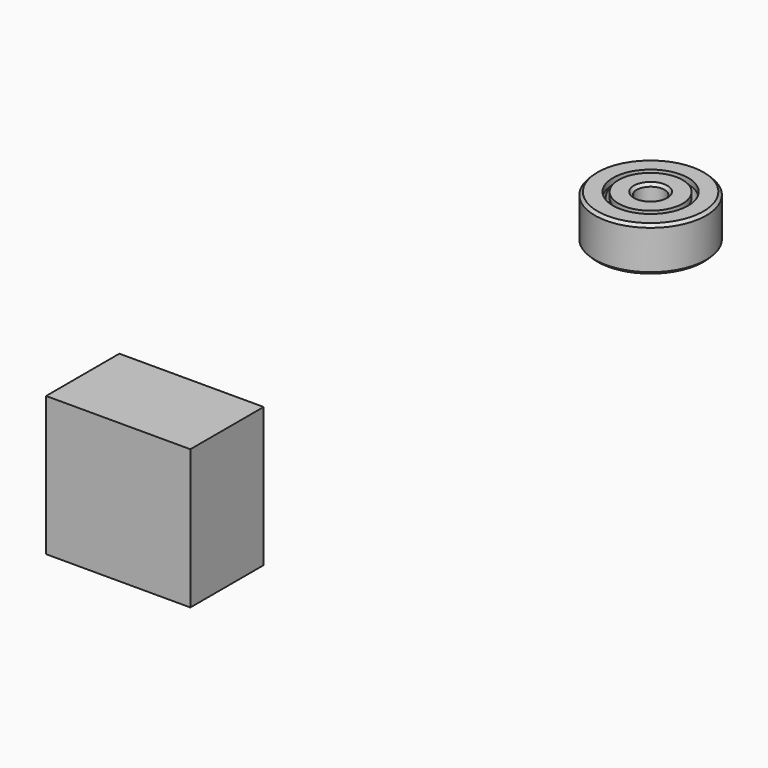
from build123d import *

# Parameters (mm, degrees)
F7_SIZE   = 0.5
F7_2_SIZE = 0.5
F8_COUNT  = 5
F10_W     = 25.8927643299
F10_H     = 16.4390318096
F11_DEPTH = 25


with BuildPart() as f5:
    # F4 (on Right) → F5 (revolve)
    with BuildSketch(Plane.YZ):
        with BuildLine():
            Line((6.25, -2.9), (6.25, 2.9))
            ThreePointArc((6.25, 2.9), (3.35, 0), (6.25, -2.9))
        make_face()
    revolve(axis=Axis((0, 6.25, 0), (0, 0, -1)))


with BuildPart() as f6:
    # F3 (on Right) → F6 (revolve)
    with BuildSketch(Plane.YZ):
        with BuildLine():
            ThreePointArc((5.75, -2.9580398915), (3.25, 0), (5.75, 2.9580398915))
            Line((5.75, 2.9580398915), (5.75, 4))
            Line((5.75, 4), (2.5, 4))
            Line((2.5, 4), (2.5, 0))
            Line((2.5, 0), (2.5, -4))
            Line((2.5, -4), (5.75, -4))
            Line((5.75, -4), (5.75, -2.9580398915))
        make_face()
    revolve(axis=Axis((0, 0, 3.6608051842), (0, 0, 1)))

    # F7#2
    f7_2_edges = [f6.edges().sort_by_distance(p)[0] for p in [
        (0, -2.5, 4),
        (0, -2.5, -4),
    ]]
    chamfer(f7_2_edges, length=F7_2_SIZE)


with BuildPart() as f6b:
    # F3 (on Right) → F6, piece 2 (revolve)
    with BuildSketch(Plane.YZ):
        with BuildLine():
            Line((6.75, 4), (6.75, 2.9580398915))
            ThreePointArc((6.75, 2.9580398915), (9.25, 0), (6.75, -2.9580398915))
            Line((6.75, -2.9580398915), (6.75, -4))
            Line((6.75, -4), (10, -4))
            Line((10, -4), (10, 0))
            Line((10, 0), (10, 4))
            Line((10, 4), (6.75, 4))
        make_face()
    revolve(axis=Axis((0, 0, 3.6608051842), (0, 0, 1)))

    # F7
    f7_edges = [f6b.edges().sort_by_distance(p)[0] for p in [
        (0, -10, 4),
        (0, -10, -4),
    ]]
    chamfer(f7_edges, length=F7_SIZE)


with BuildPart() as f8_1:
    # F8: instance of F5
    add(f5.part.rotate(Axis((0, 0, 3.6608051842), (0, 0, 1)), 1 * 360 / F8_COUNT))


with BuildPart() as f8_2:
    # F8: instance of F5
    add(f5.part.rotate(Axis((0, 0, 3.6608051842), (0, 0, 1)), 2 * 360 / F8_COUNT))


with BuildPart() as f8_3:
    # F8: instance of F5
    add(f5.part.rotate(Axis((0, 0, 3.6608051842), (0, 0, 1)), 3 * 360 / F8_COUNT))


with BuildPart() as f8_4:
    # F8: instance of F5
    add(f5.part.rotate(Axis((0, 0, 3.6608051842), (0, 0, 1)), 4 * 360 / F8_COUNT))


with BuildPart() as f6_1:
    # F9: moved
    add(f6.part.moved(Location((0, 0, 50))))


with BuildPart() as f5_1:
    # F9: moved
    add(f5.part.moved(Location((0, 0, 50))))


with BuildPart() as f6b_1:
    # F9: moved
    add(f6b.part.moved(Location((0, 0, 50))))


with BuildPart() as f8_3_1:
    # F9: moved
    add(f8_3.part.moved(Location((0, 0, 50))))


with BuildPart() as f8_1_1:
    # F9: moved
    add(f8_1.part.moved(Location((0, 0, 50))))


with BuildPart() as f8_2_1:
    # F9: moved
    add(f8_2.part.moved(Location((0, 0, 50))))


with BuildPart() as f8_4_1:
    # F9: moved
    add(f8_4.part.moved(Location((0, 0, 50))))


with BuildPart() as f11:
    # F10 (on Top) → F11 (new body)
    with BuildSketch(Plane.XY):
        with Locations((-49.2959842086, -49.5940167457)):
            Rectangle(F10_W, F10_H)
    extrude(amount=F11_DEPTH)


solid = Compound([f6_1.part, f5_1.part, f6b_1.part, f8_3_1.part, f8_1_1.part, f8_2_1.part, f8_4_1.part, f11.part])
